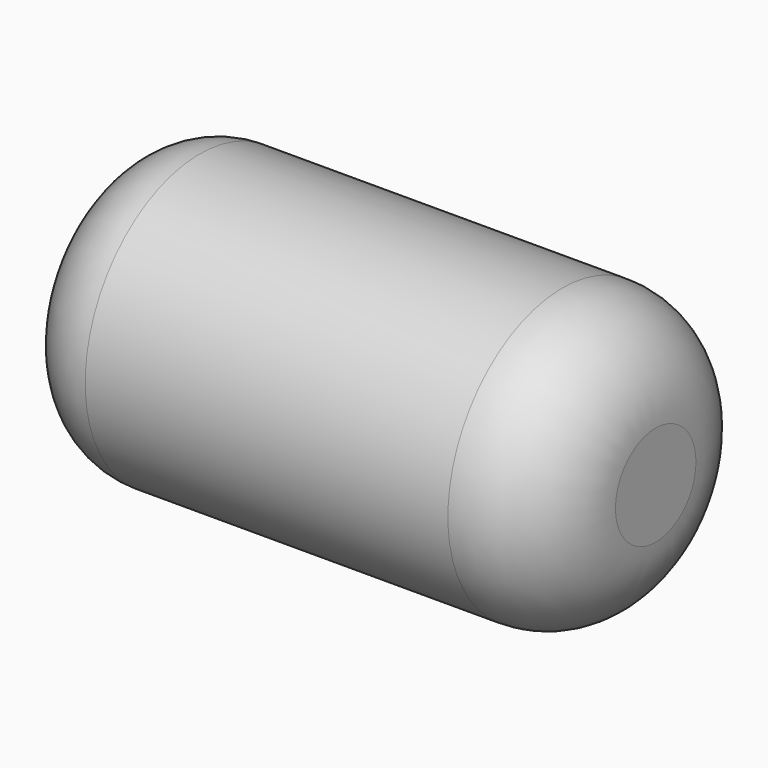
from build123d import *

# Parameters (mm, degrees)
F0_R     = 12.269655
F1_DEPTH = 46
F2_R     = 7.001219
F3_R     = 7.966905


with BuildPart() as f1:
    # F0 (on Right) → F1 (new body)
    with BuildSketch(Plane.YZ):
        Circle(F0_R)
    extrude(amount=-F1_DEPTH)

    # F2
    f2_edges = [f1.edges().sort_by_distance(p)[0] for p in [
        (-46, -12.269655, 0),
    ]]
    fillet(f2_edges, radius=F2_R)

    # F3
    f3_edges = [f1.edges().sort_by_distance(p)[0] for p in [
        (0, -12.269655, 0),
    ]]
    fillet(f3_edges, radius=F3_R)


solid = f1.part
